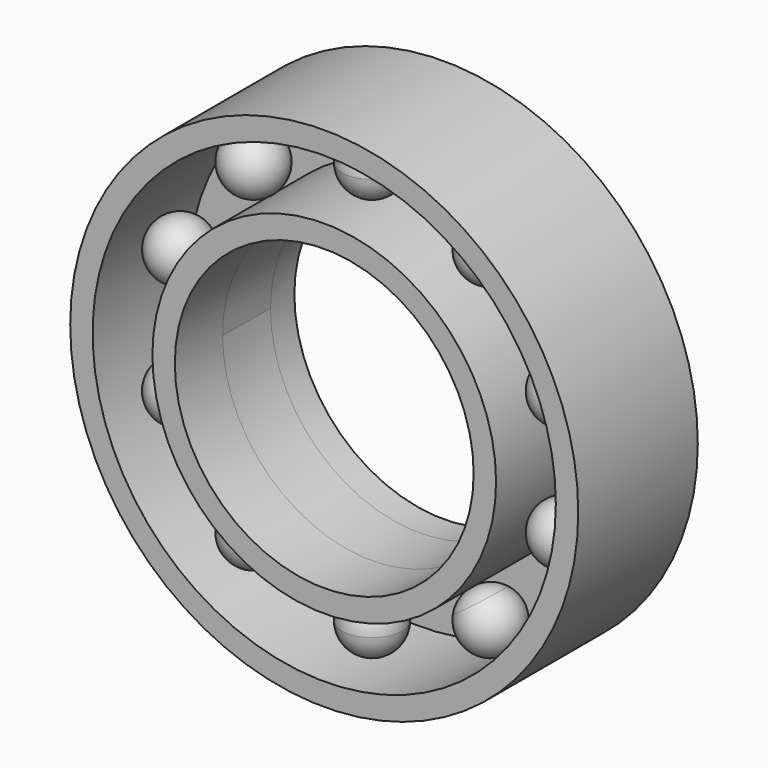
from build123d import *

# Parameters (mm, degrees)
F0_R      = 7.3025
F0_R_2    = 6.35
F1_DEPTH  = 6.35
F0_R_3    = 10.795
F0_R_4    = 9.8425
F2_R      = 9.8425
F3_DEPTH  = 1.27
F12_R     = 6.35
F13_DEPTH = 25.4


with BuildPart() as f1:
    # F0 (on Front) → F1 (new body)
    with BuildSketch(Plane.XZ):
        Circle(F0_R)
        Circle(F0_R_2, mode=Mode.SUBTRACT)
    extrude(amount=F1_DEPTH)



with BuildPart() as f1b:
    # F0 (on Front) → F1, piece 2 (new body)
    with BuildSketch(Plane.XZ):
        Circle(F0_R_3)
        Circle(F0_R_4, mode=Mode.SUBTRACT)
    extrude(amount=F1_DEPTH)


with BuildPart() as f1_1:
    add(f1.part)

    add(f1b.part)  # F3 merges F1b
    # F2 (on Front) → F3 (join)
    with BuildSketch(Plane.XZ):
        Circle(F2_R)
    extrude(amount=F3_DEPTH)

    # F6 (on line) → F7 (revolve)
    with BuildSketch(Plane(origin=(0, -3.81, 0), x_dir=(-1, 0, 0), z_dir=(0, 1, 0))):
        with BuildLine():
            ThreePointArc((0, 7.3025), (0.8980256121, 7.6744743879), (1.27, 8.5725))
            ThreePointArc((1.27, 8.5725), (0.8980256121, 9.4705256121), (0, 9.8425))
            Line((0, 9.8425), (0, 7.3025))
        make_face()
        with BuildLine():
            ThreePointArc((1.27, -8.5725), (0.8980256121, -7.6744743879), (0, -7.3025))
            Line((0, -7.3025), (0, -9.8425))
            ThreePointArc((0, -9.8425), (0.8980256121, -9.4705256121), (1.27, -8.5725))
        make_face()
    revolve(axis=Axis((0, -3.81, 0), (0, 0, 1)))

    # F12 (on line) → F13 (cut)
    with BuildSketch(Plane(origin=(0, -3.81, 0), x_dir=(-1, 0, 0), z_dir=(0, 1, 0))):
        Circle(F12_R)
    extrude(amount=F13_DEPTH, mode=Mode.SUBTRACT)


with BuildPart() as f8:
    # F6 (on line) → F8 (revolve)
    with BuildSketch(Plane(origin=(0, -3.81, 0), x_dir=(-1, 0, 0), z_dir=(0, 1, 0))):
        with BuildLine():
            ThreePointArc((5.7852763457, 7.9627497671), (4.0113374924, 7.6817854547), (4.2923018049, 5.9078466014))
            Line((4.2923018049, 5.9078466014), (5.7852763457, 7.9627497671))
        make_face()
    revolve(axis=Axis((0, -3.81, 0), (0.5877852523, 0, -0.8090169944)))


with BuildPart() as f8b:
    # F6 (on line) → F8, piece 2 (revolve)
    with BuildSketch(Plane(origin=(0, -3.81, 0), x_dir=(-1, 0, 0), z_dir=(0, 1, 0))):
        with BuildLine():
            ThreePointArc((-3.7687890753, -6.9352981843), (-3.9072107896, -6.3587302496), (-4.2923018049, -5.9078466014))
            Line((-4.2923018049, -5.9078466014), (-5.7852763457, -7.9627497671))
            ThreePointArc((-5.7852763457, -7.9627497671), (-4.4622211406, -8.06687647), (-3.7687890753, -6.9352981843))
        make_face()
    revolve(axis=Axis((0, -3.81, 0), (0.5877852523, 0, -0.8090169944)))


with BuildPart() as f9:
    # F6 (on line) → F9 (revolve)
    with BuildSketch(Plane(origin=(0, -3.81, 0), x_dir=(-1, 0, 0), z_dir=(0, 1, 0))):
        with BuildLine():
            Line((-5.7852763457, 7.9627497671), (-4.2923018049, 5.9078466014))
            ThreePointArc((-4.2923018049, 5.9078466014), (-3.9072107896, 6.3587302496), (-3.7687890753, 6.9352981843))
            ThreePointArc((-3.7687890753, 6.9352981843), (-4.4622211406, 8.06687647), (-5.7852763457, 7.9627497671))
        make_face()
    revolve(axis=Axis((0, -3.81, 0), (0.5877852523, 0, 0.8090169944)))


with BuildPart() as f9b:
    # F6 (on line) → F9, piece 2 (revolve)
    with BuildSketch(Plane(origin=(0, -3.81, 0), x_dir=(-1, 0, 0), z_dir=(0, 1, 0))):
        with BuildLine():
            Line((5.7852763457, -7.9627497671), (4.2923018049, -5.9078466014))
            ThreePointArc((4.2923018049, -5.9078466014), (4.0113374924, -7.6817854547), (5.7852763457, -7.9627497671))
        make_face()
    revolve(axis=Axis((0, -3.81, 0), (0.5877852523, 0, 0.8090169944)))


with BuildPart() as f10:
    # F6 (on line) → F10 (revolve)
    with BuildSketch(Plane(origin=(0, -3.81, 0), x_dir=(-1, 0, 0), z_dir=(0, 1, 0))):
        with BuildLine():
            ThreePointArc((9.3607737616, 3.0414997671), (7.7604804031, 3.85688996), (6.9450902102, 2.2565966014))
            Line((6.9450902102, 2.2565966014), (9.3607737616, 3.0414997671))
        make_face()
    revolve(axis=Axis((0, -3.81, 0), (0.9510565163, 0, -0.3090169944)))


with BuildPart() as f10b:
    # F6 (on line) → F10, piece 2 (revolve)
    with BuildSketch(Plane(origin=(0, -3.81, 0), x_dir=(-1, 0, 0), z_dir=(0, 1, 0))):
        with BuildLine():
            ThreePointArc((-6.8829319859, -2.6490481843), (-6.8985677934, -2.4503764137), (-6.9450902102, -2.2565966014))
            Line((-6.9450902102, -2.2565966014), (-9.3607737616, -3.0414997671))
            ThreePointArc((-9.3607737616, -3.0414997671), (-7.9542602153, -3.9034123768), (-6.8829319859, -2.6490481843))
        make_face()
    revolve(axis=Axis((0, -3.81, 0), (0.9510565163, 0, -0.3090169944)))


with BuildPart() as f11:
    # F6 (on line) → F11 (revolve)
    with BuildSketch(Plane(origin=(0, -3.81, 0), x_dir=(-1, 0, 0), z_dir=(0, 1, 0))):
        with BuildLine():
            Line((9.3607737616, -3.0414997671), (6.9450902102, -2.2565966014))
            ThreePointArc((6.9450902102, -2.2565966014), (7.7604804031, -3.85688996), (9.3607737616, -3.0414997671))
        make_face()
    revolve(axis=Axis((0, -3.81, 0), (0.9510565163, 0, 0.3090169944)))


with BuildPart() as f11b:
    # F6 (on line) → F11, piece 2 (revolve)
    with BuildSketch(Plane(origin=(0, -3.81, 0), x_dir=(-1, 0, 0), z_dir=(0, 1, 0))):
        with BuildLine():
            Line((-9.3607737616, 3.0414997671), (-6.9450902102, 2.2565966014))
            ThreePointArc((-6.9450902102, 2.2565966014), (-6.8985677934, 2.4503764137), (-6.8829319859, 2.6490481843))
            ThreePointArc((-6.8829319859, 2.6490481843), (-7.9542602153, 3.9034123768), (-9.3607737616, 3.0414997671))
        make_face()
    revolve(axis=Axis((0, -3.81, 0), (0.9510565163, 0, 0.3090169944)))


solid = Compound([f1_1.part, f8.part, f8b.part, f9.part, f9b.part, f10.part, f10b.part, f11.part, f11b.part])
